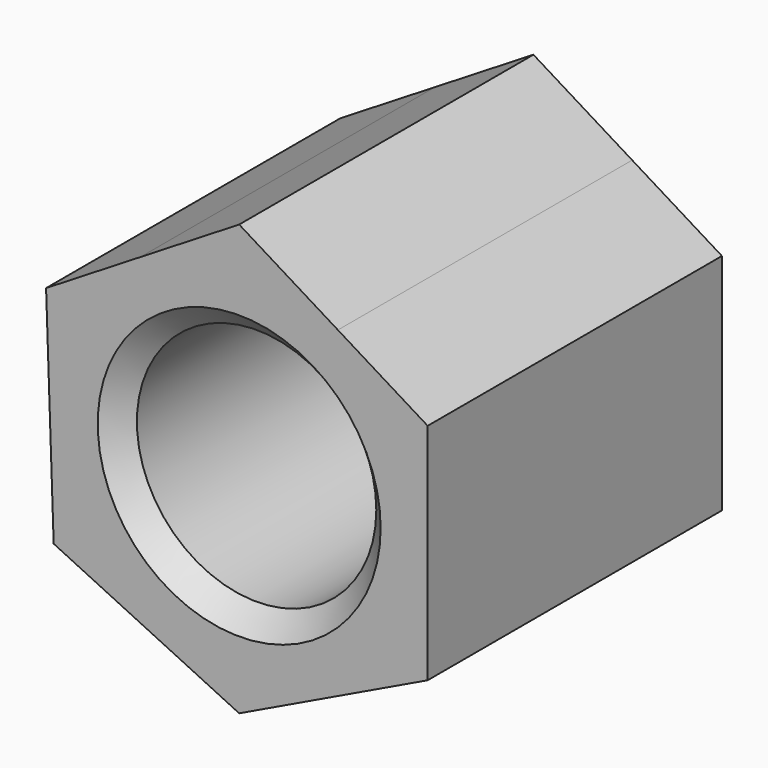
from build123d import *

# Parameters (mm, degrees)
F0_R     = 2.75
F1_DEPTH = 8.45
F2_SIZE  = 0.5


with BuildPart() as f1:
    # F0 (on Front) → F1 (new body)
    with BuildSketch(Plane.XZ):
        with BuildLine():
            ThreePointArc((-132.8375352313, 22.8701725471), (-131.0452779523, 24.467741248), (-130.3796414733, 26.7745442275))
            ThreePointArc((-130.3796414733, 26.7745442275), (-130.9300791601, 28.887316984), (-132.441446887, 30.4629305032))
            ThreePointArc((-132.441446887, 30.4629305032), (-134.7096414781, 31.1045442275), (-136.9778360677, 30.4629304982))
            ThreePointArc((-136.9778360677, 30.4629304982), (-139.0337617379, 26.5489695453), (-136.5817476464, 22.8701725141))
            ThreePointArc((-136.5817476464, 22.8701725141), (-134.7096414351, 22.4445442275), (-132.8375352313, 22.8701725471))
        make_face()
        with Locations((-134.7096414733, 26.7745442275)):
            Circle(F0_R, mode=Mode.SUBTRACT)
        with BuildLine():
            Line((-130.3796414733, 24.0487074352), (-130.3796414733, 26.7745442275))
            ThreePointArc((-130.3796414733, 26.7745442275), (-131.0452779523, 24.467741248), (-132.8375352313, 22.8701725471))
            Line((-132.8375352313, 22.8701725471), (-130.3796414733, 24.0487074352))
        make_face()
        with BuildLine():
            ThreePointArc((-132.441446887, 30.4629305032), (-130.9300791601, 28.887316984), (-130.3796414733, 26.7745442275))
            Line((-130.3796414733, 26.7745442275), (-130.3796414733, 29.1950113514))
            Line((-130.3796414733, 29.1950113514), (-132.441446887, 30.4629305032))
        make_face()
        with BuildLine():
            ThreePointArc((-136.9778360677, 30.4629304982), (-134.7096414781, 31.1045442275), (-132.441446887, 30.4629305032))
            Line((-132.441446887, 30.4629305032), (-134.7096414733, 31.8577698691))
            Line((-134.7096414733, 31.8577698691), (-136.9778360677, 30.4629304982))
        make_face()
        with BuildLine():
            Line((-134.7096414733, 21.9725167744), (-132.8375352313, 22.8701725471))
            ThreePointArc((-132.8375352313, 22.8701725471), (-134.7096414351, 22.4445442275), (-136.5817476464, 22.8701725141))
            Line((-136.5817476464, 22.8701725141), (-134.7096414733, 21.9725167744))
        make_face()
        with BuildLine():
            ThreePointArc((-136.5817476464, 22.8701725141), (-139.0337617379, 26.5489695453), (-136.9778360677, 30.4629304982))
            Line((-136.9778360677, 30.4629304982), (-139.1458009268, 29.1297279821))
            Line((-139.1458009268, 29.1297279821), (-138.971331925, 24.0159537063))
            Line((-138.971331925, 24.0159537063), (-136.5817476464, 22.8701725141))
        make_face()
    extrude(amount=F1_DEPTH)

    # F2
    f2_edges = [f1.edges().sort_by_distance(p)[0] for p in [
        (-137.459641, -8.45, 26.774544),
    ]]
    chamfer(f2_edges, length=F2_SIZE)


solid = f1.part
